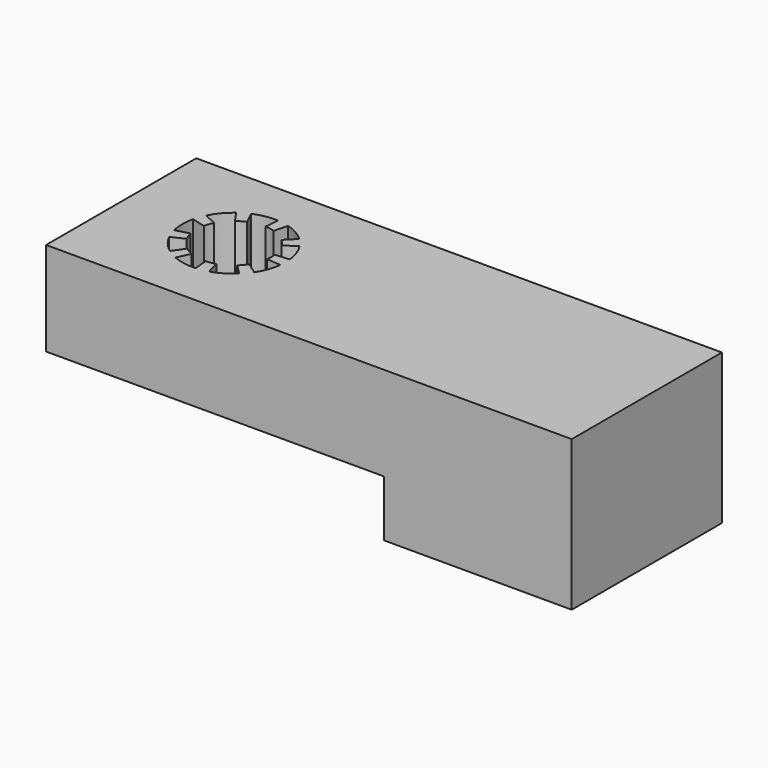
from build123d import *

# Parameters (mm, degrees)
F0_W     = 28
F0_H     = 10
F1_DEPTH = 5
F3_DEPTH = 6
F4_W     = 10
F4_H     = 10
F5_DEPTH = 3
F6_W     = 6.5
F6_H     = 6.5
F7_DEPTH = 6


with BuildPart() as f1:
    # F0 (on Top) → F1 (new body)
    with BuildSketch(Plane.XY):
        with Locations((14, 0)):
            Rectangle(F0_W, F0_H)
    extrude(amount=F1_DEPTH)

    # F2 (on face) → F3 (cut)
    with BuildSketch(Plane.XY.offset(5)):
        with BuildLine():
            Line((7.9837568295, 0.2543793255), (8.7316052217, 0.3175419863))
            ThreePointArc((8.7316052217, 0.3175419863), (8.5841547072, 0.9405553941), (8.2966430552, 1.512590717))
            Line((8.2966430552, 1.512590717), (7.6831577744, 1.0802684419))
            ThreePointArc((7.6831577744, 1.0802684419), (7.8793852416, 0.6840402867), (7.9837568295, 0.2543793255))
        make_face()
        with BuildLine():
            Line((7.9837568295, -0.2543793255), (7.9837568295, 0.2543793255))
            ThreePointArc((7.9837568295, 0.2543793255), (7.8793852416, 0.6840402867), (7.6831577744, 1.0802684419))
            Line((7.6831577744, 1.0802684419), (7.3561340172, 1.4700001794))
            ThreePointArc((7.3561340172, 1.4700001794), (7, 1.7320508076), (6.5949904904, 1.9094465995))
            Line((6.5949904904, 1.9094465995), (6.0939610264, 1.9977916121))
            ThreePointArc((6.0939610264, 1.9977916121), (5.6527036447, 1.969615506), (5.2284205433, 1.8451734721))
            Line((5.2284205433, 1.8451734721), (4.7878226271, 1.5907941466))
            ThreePointArc((4.7878226271, 1.5907941466), (4.4679111138, 1.2855752194), (4.2228811992, 0.9175231702))
            Line((4.2228811992, 0.9175231702), (4.0488754925, 0.4394464201))
            ThreePointArc((4.0488754925, 0.4394464201), (4, 0), (4.0488754925, -0.4394464201))
            Line((4.0488754925, -0.4394464201), (4.2228811992, -0.9175231702))
            ThreePointArc((4.2228811992, -0.9175231702), (4.4679111138, -1.2855752194), (4.7878226271, -1.5907941466))
            Line((4.7878226271, -1.5907941466), (5.2284205433, -1.8451734721))
            ThreePointArc((5.2284205433, -1.8451734721), (5.6527036447, -1.969615506), (6.0939610264, -1.9977916121))
            Line((6.0939610264, -1.9977916121), (6.5949904904, -1.9094465995))
            ThreePointArc((6.5949904904, -1.9094465995), (7, -1.7320508076), (7.3561340172, -1.4700001794))
            Line((7.3561340172, -1.4700001794), (7.6831577744, -1.0802684419))
            ThreePointArc((7.6831577744, -1.0802684419), (7.8793852416, -0.6840402867), (7.9837568295, -0.2543793255))
        make_face()
        with BuildLine():
            ThreePointArc((8, 0), (7.9959350765, 0.1274486974), (7.9837568295, 0.2543793255))
            Line((7.9837568295, 0.2543793255), (7.9837568295, -0.2543793255))
            ThreePointArc((7.9837568295, -0.2543793255), (7.9959350765, -0.1274486974), (8, 0))
        make_face()
        with BuildLine():
            Line((7.3561340172, 1.4700001794), (7.6831577744, 1.0802684419))
            ThreePointArc((7.6831577744, 1.0802684419), (7.5320888862, 1.2855752194), (7.3561340172, 1.4700001794))
        make_face()
        with BuildLine():
            Line((8.7316052217, -0.3175419863), (7.9837568295, -0.2543793255))
            ThreePointArc((7.9837568295, -0.2543793255), (7.8793852416, -0.6840402867), (7.6831577744, -1.0802684419))
            Line((7.6831577744, -1.0802684419), (8.2966430552, -1.512590717))
            ThreePointArc((8.2966430552, -1.512590717), (8.5841547072, -0.9405553941), (8.7316052217, -0.3175419863))
        make_face()
        with BuildLine():
            ThreePointArc((6.5949904904, 1.9094465995), (7, 1.7320508076), (7.3561340172, 1.4700001794))
            Line((7.3561340172, 1.4700001794), (7.8884189465, 1.9990932651))
            ThreePointArc((7.8884189465, 1.9990932651), (7.375, 2.3815698604), (6.7870560788, 2.6349654132))
            Line((6.7870560788, 2.6349654132), (6.5949904904, 1.9094465995))
        make_face()
        with BuildLine():
            ThreePointArc((7.3561340172, -1.4700001794), (7.5320888862, -1.2855752194), (7.6831577744, -1.0802684419))
            Line((7.6831577744, -1.0802684419), (7.3561340172, -1.4700001794))
        make_face()
        with BuildLine():
            Line((6.0939610264, 1.9977916121), (6.5949904904, 1.9094465995))
            ThreePointArc((6.5949904904, 1.9094465995), (6.3472963553, 1.969615506), (6.0939610264, 1.9977916121))
        make_face()
        with BuildLine():
            Line((7.8884189465, -1.9990932651), (7.3561340172, -1.4700001794))
            ThreePointArc((7.3561340172, -1.4700001794), (7, -1.7320508076), (6.5949904904, -1.9094465995))
            Line((6.5949904904, -1.9094465995), (6.7870560788, -2.6349654132))
            ThreePointArc((6.7870560788, -2.6349654132), (7.375, -2.3815698604), (7.8884189465, -1.9990932651))
        make_face()
        with BuildLine():
            ThreePointArc((5.2284205433, 1.8451734721), (5.6527036447, 1.969615506), (6.0939610264, 1.9977916121))
            Line((6.0939610264, 1.9977916121), (6.1616204589, 2.7452465877))
            ThreePointArc((6.1616204589, 2.7452465877), (5.5224675114, 2.7082213208), (4.9091968161, 2.5244105082))
            Line((4.9091968161, 2.5244105082), (5.2284205433, 1.8451734721))
        make_face()
        with BuildLine():
            ThreePointArc((6.0939610264, -1.9977916121), (6.3472963553, -1.969615506), (6.5949904904, -1.9094465995))
            Line((6.5949904904, -1.9094465995), (6.0939610264, -1.9977916121))
        make_face()
        with BuildLine():
            Line((4.7878226271, 1.5907941466), (5.2284205433, 1.8451734721))
            ThreePointArc((5.2284205433, 1.8451734721), (5, 1.7320508076), (4.7878226271, 1.5907941466))
        make_face()
        with BuildLine():
            Line((6.1616204589, -2.7452465877), (6.0939610264, -1.9977916121))
            ThreePointArc((6.0939610264, -1.9977916121), (5.6527036447, -1.969615506), (5.2284205433, -1.8451734721))
            Line((5.2284205433, -1.8451734721), (4.9091968161, -2.5244105082))
            ThreePointArc((4.9091968161, -2.5244105082), (5.5224675114, -2.7082213208), (6.1616204589, -2.7452465877))
        make_face()
        with BuildLine():
            ThreePointArc((4.2228811992, 0.9175231702), (4.4679111138, 1.2855752194), (4.7878226271, 1.5907941466))
            Line((4.7878226271, 1.5907941466), (4.3591979623, 2.2068685219))
            ThreePointArc((4.3591979623, 2.2068685219), (3.8933777814, 1.7676659266), (3.541736486, 1.2326558707))
            Line((3.541736486, 1.2326558707), (4.2228811992, 0.9175231702))
        make_face()
        with BuildLine():
            ThreePointArc((4.7878226271, -1.5907941466), (5, -1.7320508076), (5.2284205433, -1.8451734721))
            Line((5.2284205433, -1.8451734721), (4.7878226271, -1.5907941466))
        make_face()
        with BuildLine():
            Line((4.0488754925, 0.4394464201), (4.2228811992, 0.9175231702))
            ThreePointArc((4.2228811992, 0.9175231702), (4.1206147584, 0.6840402867), (4.0488754925, 0.4394464201))
        make_face()
        with BuildLine():
            Line((4.3591979623, -2.2068685219), (4.7878226271, -1.5907941466))
            ThreePointArc((4.7878226271, -1.5907941466), (4.4679111138, -1.2855752194), (4.2228811992, -0.9175231702))
            Line((4.2228811992, -0.9175231702), (3.541736486, -1.2326558707))
            ThreePointArc((3.541736486, -1.2326558707), (3.8933777814, -1.7676659266), (4.3591979623, -2.2068685219))
        make_face()
        with BuildLine():
            ThreePointArc((4.0488754925, -0.4394464201), (4, 0), (4.0488754925, 0.4394464201))
            Line((4.0488754925, 0.4394464201), (3.3245249747, 0.6358721481))
            ThreePointArc((3.3245249747, 0.6358721481), (3.25, 0), (3.3245249747, -0.6358721481))
            Line((3.3245249747, -0.6358721481), (4.0488754925, -0.4394464201))
        make_face()
        with BuildLine():
            ThreePointArc((4.0488754925, -0.4394464201), (4.1206147584, -0.6840402867), (4.2228811992, -0.9175231702))
            Line((4.2228811992, -0.9175231702), (4.0488754925, -0.4394464201))
        make_face()
    extrude(amount=-F3_DEPTH, mode=Mode.SUBTRACT)

    # F4 (on face) → F5 (join)
    with BuildSketch(Plane(origin=(0, 0, 0), x_dir=(1, 0, 0), z_dir=(0, 0, -1))):
        with Locations((23, 0)):
            Rectangle(F4_W, F4_H)
    extrude(amount=F5_DEPTH)

    # F6 (on face) → F7 (cut)
    with BuildSketch(Plane(origin=(0, 0, -3), x_dir=(1, 0, 0), z_dir=(0, 0, -1))):
        with Locations((23, 0)):
            Rectangle(F6_W, F6_H)
    extrude(amount=-F7_DEPTH, mode=Mode.SUBTRACT)


solid = f1.part
